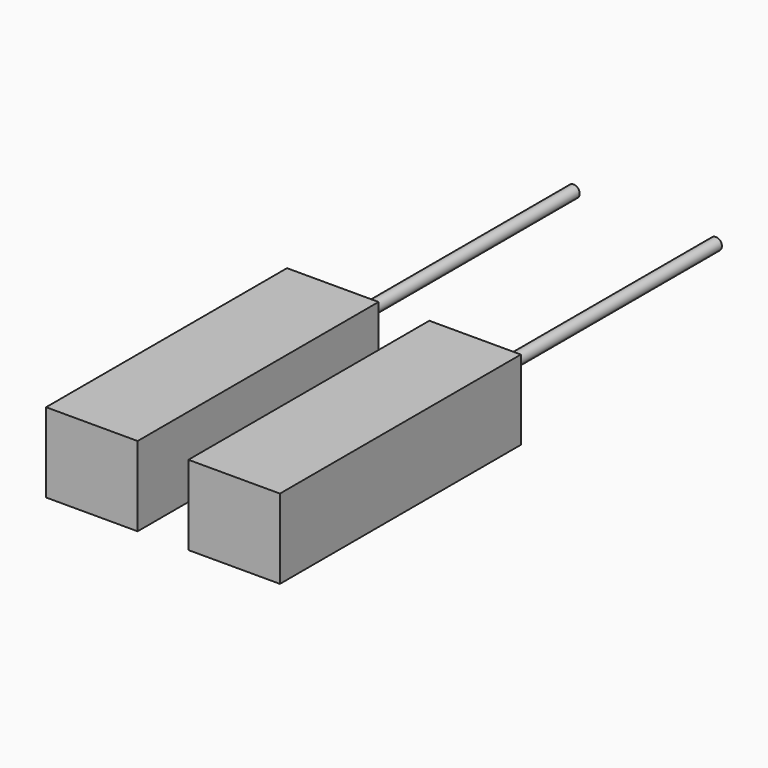
from build123d import *

# Parameters (mm, degrees)
F0_R     = 0.5
F1_DEPTH = 50
F0_W     = 7.6
F0_H     = 6.6
F2_DEPTH = 25


with BuildPart() as f1:
    # F0 (on Front) → F1 (new body)
    with BuildSketch(Plane.XZ):
        with Locations((5.900131, -0.00748)):
            Circle(F0_R)
        with Locations((-5.909312, -0.009356)):
            Circle(F0_R)
    extrude(amount=-F1_DEPTH)

    # F0 (on Front) → F2 (join)
    with BuildSketch(Plane.XZ):
        with Locations((5.908132, 0.002104)):
            Rectangle(F0_W, F0_H)
        with Locations((5.900131, -0.00748)):
            Circle(F0_R, mode=Mode.SUBTRACT)
        with Locations((-5.905837, 0.002104)):
            Rectangle(F0_W, F0_H)
        with Locations((-5.909312, -0.009356)):
            Circle(F0_R, mode=Mode.SUBTRACT)
    extrude(amount=-F2_DEPTH)


solid = f1.part
